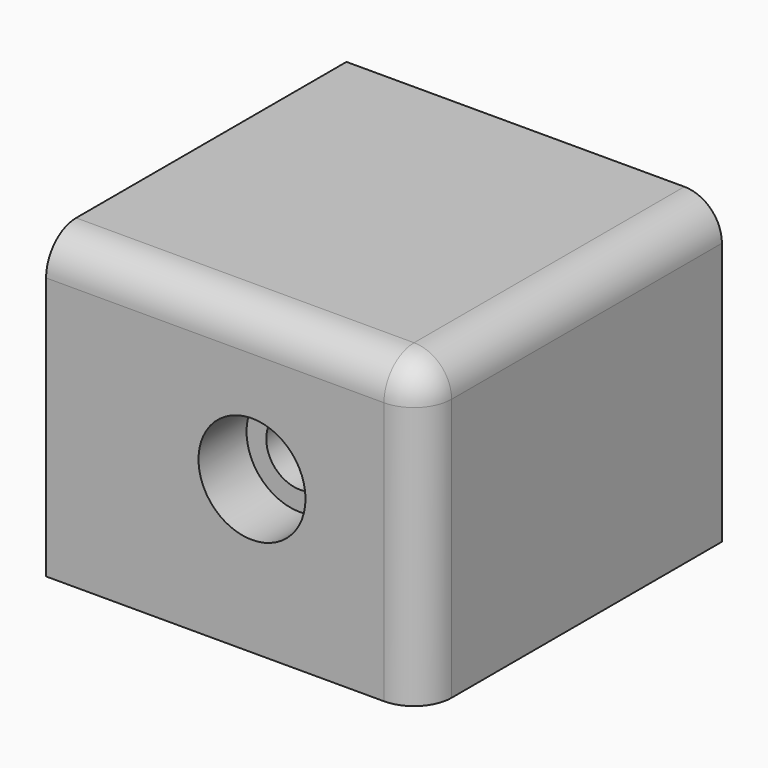
from build123d import *

# Parameters (mm, degrees)
F0_W           = 50
F0_H           = 40
F1_DEPTH       = 50
F3_D           = 9
F3_CBORE_D     = 14.25
F3_CBORE_DEPTH = 8
F4_R           = 5


with BuildPart() as f1:
    # F0 (on Front) → F1 (new body)
    with BuildSketch(Plane.XZ):
        with Locations((25, 20)):
            Rectangle(F0_W, F0_H)
    extrude(amount=F1_DEPTH)

    # F3 (through all)
    with Locations(Plane.XZ.offset(50)):
        with Locations((27.4210199714, 20.3279424459)):
            CounterBoreHole(F3_D / 2, F3_CBORE_D / 2, F3_CBORE_DEPTH)

    # F4
    f4_edges = [f1.edges().sort_by_distance(p)[0] for p in [
        (25, -50, 40),
        (50, -50, 20),
        (50, -25, 40),
    ]]
    fillet(f4_edges, radius=F4_R)


solid = f1.part
